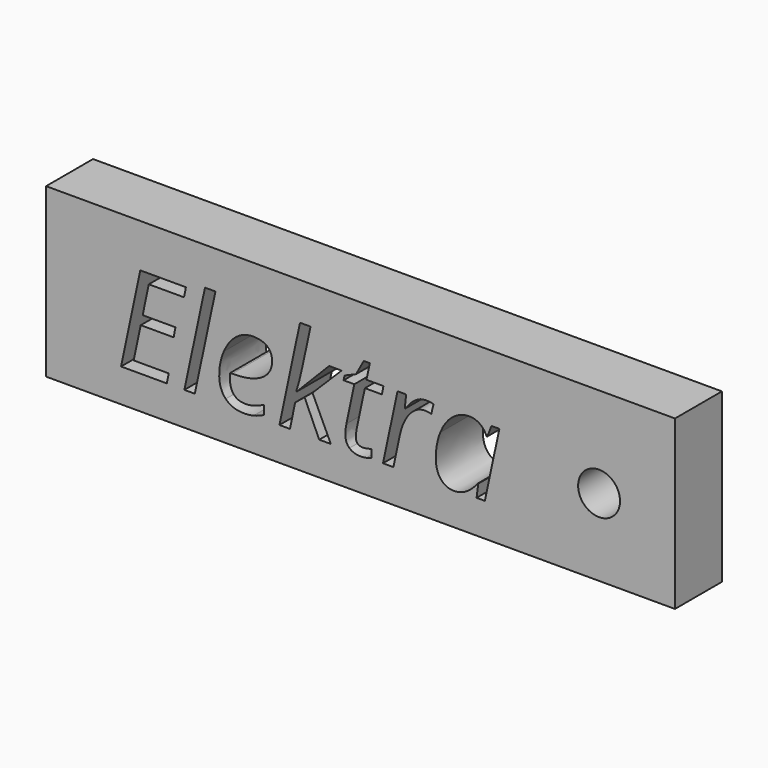
from build123d import *

# Parameters (mm, degrees)
F0_W     = 75
F0_H     = 20
F0_R     = 2.5
F1_DEPTH = 7


with BuildPart() as f1:
    # F0 (on Front) → F1 (new body)
    with BuildSketch(Plane.XZ):
        with Locations((37.5, -10)):
            Rectangle(F0_W, F0_H)
        Polygon((14.6358500468, -14.8998533473), (14.3914699527, -16.0268489271), (8.941556591, -16.0268489271), (11.2311370847, -5.1863377606), (16.6810504464, -5.1863377606), (16.4437882191, -6.3204512072), (12.2489920399, -6.3204512072), (11.520597002, -9.7987154598), (15.4283058861, -9.7987154598), (15.2147698815, -10.9257110396), (11.2904526415, -10.9257110396), (10.4457991123, -14.8998533473), align=None, mode=Mode.SUBTRACT)
        Polygon((20.1972766554, -4.4887868122), (17.7344947357, -16.0268489271), (16.4888680423, -16.0268489271), (18.9516499619, -4.4887868122), align=None, mode=Mode.SUBTRACT)
        with BuildLine():
            add(Edge.make_bspline(
                [(24.7479661755, -16.0458299053), (24.214126164, -16.1763241304), (23.571145528, -16.1763241304)],
                knots=[0, 0, 0, 1, 1, 1], degree=2))
            add(Edge.make_bspline(
                [(23.571145528, -16.1763241304), (22.2068877208, -16.1763241304), (21.4274813041, -15.3672599352)],
                knots=[0, 0, 0, 1, 1, 1], degree=2))
            add(Edge.make_bspline(
                [(21.4274813041, -15.3672599352), (20.6480748873, -14.55819574), (20.6480748873, -13.1275045092)],
                knots=[0, 0, 0, 1, 1, 1], degree=2))
            add(Edge.make_bspline(
                [(20.6480748873, -13.1275045092), (20.6480748873, -11.7347752348), (21.200895877, -10.4547455184)],
                knots=[0, 0, 0, 1, 1, 1], degree=2))
            add(Edge.make_bspline(
                [(21.200895877, -10.4547455184), (21.7537168666, -9.1747158019), (22.6659901307, -8.46292912)],
                knots=[0, 0, 0, 1, 1, 1], degree=2))
            add(Edge.make_bspline(
                [(22.6659901307, -8.46292912), (23.5782633948, -7.751142438), (24.674414885, -7.751142438)],
                knots=[0, 0, 0, 1, 1, 1], degree=2))
            add(Edge.make_bspline(
                [(24.674414885, -7.751142438), (25.8085283317, -7.751142438), (26.3803302995, -8.2446478708)],
                knots=[0, 0, 0, 1, 1, 1], degree=2))
            add(Edge.make_bspline(
                [(26.3803302995, -8.2446478708), (26.9521322674, -8.7381533037), (26.9521322674, -9.6207687893)],
                knots=[0, 0, 0, 1, 1, 1], degree=2))
            add(Edge.make_bspline(
                [(26.9521322674, -9.6207687893), (26.9521322674, -10.9541825069), (25.7207413075, -11.7146079455)],
                knots=[0, 0, 0, 1, 1, 1], degree=2))
            add(Edge.make_bspline(
                [(25.7207413075, -11.7146079455), (24.4893503477, -12.4750333841), (22.1973972317, -12.4750333841)],
                knots=[0, 0, 0, 1, 1, 1], degree=2))
            Line((22.1973972317, -12.4750333841), (21.9530171376, -12.4750333841))
            Line((21.9530171376, -12.4750333841), (21.9245456703, -13.0681889524))
            add(Edge.make_bspline(
                [(21.9245456703, -13.0681889524), (21.9245456703, -14.0385914621), (22.3800891468, -14.584294585)],
                knots=[0, 0, 0, 1, 1, 1], degree=2))
            add(Edge.make_bspline(
                [(22.3800891468, -14.584294585), (22.8356326233, -15.1299977078), (23.7917993994, -15.1299977078)],
                knots=[0, 0, 0, 1, 1, 1], degree=2))
            add(Edge.make_bspline(
                [(23.7917993994, -15.1299977078), (24.2592059872, -15.1299977078), (24.7527114201, -14.9959445494)],
                knots=[0, 0, 0, 1, 1, 1], degree=2))
            add(Edge.make_bspline(
                [(24.7527114201, -14.9959445494), (25.2462168529, -14.861891391), (25.9793571353, -14.50599805)],
                knots=[0, 0, 0, 1, 1, 1], degree=2))
            Line((25.9793571353, -14.50599805), (25.9793571353, -15.5902864289))
            add(Edge.make_bspline(
                [(25.9793571353, -15.5902864289), (25.281806187, -15.9153356803), (24.7479661755, -16.0458299053)],
                knots=[0, 0, 0, 1, 1, 1], degree=2))
        make_face(mode=Mode.SUBTRACT)
        with BuildLine():
            Line((29.8277504626, -11.8818778157), (29.8562219299, -11.8818778157))
            Line((29.8562219299, -11.8818778157), (33.7568129471, -7.9006176412))
            Line((33.7568129471, -7.9006176412), (35.2468197347, -7.9006176412))
            Line((35.2468197347, -7.9006176412), (31.7709281044, -11.3622735379))
            Line((31.7709281044, -11.3622735379), (33.9561132181, -16.0268489271))
            Line((33.9561132181, -16.0268489271), (32.5705018105, -16.0268489271))
            Line((32.5705018105, -16.0268489271), (30.8289970619, -12.1404936435))
            Line((30.8289970619, -12.1404936435), (29.7020014821, -13.0539532187))
            Line((29.7020014821, -13.0539532187), (29.0922375579, -16.0268489271))
            Line((29.0922375579, -16.0268489271), (27.8323751308, -16.0268489271))
            Line((27.8323751308, -16.0268489271), (30.2785486945, -4.4887868122))
            Line((30.2785486945, -4.4887868122), (31.5407837439, -4.4887868122))
            add(Edge.make_bspline(
                [(31.5407837439, -4.4887868122), (31.0069437324, -6.9800401992), (30.5834306566, -8.9528756194)],
                knots=[0, 0, 0, 1, 1, 1], degree=2))
            add(Edge.make_bspline(
                [(30.5834306566, -8.9528756194), (30.1599175808, -10.9257110396), (29.8277504626, -11.8818778157)],
                knots=[0, 0, 0, 1, 1, 1], degree=2))
        make_face(mode=Mode.SUBTRACT)
        with BuildLine():
            add(Edge.make_bspline(
                [(44.4668298886, -7.9184123082), (44.8488220746, -7.751142438), (45.3162286625, -7.751142438)],
                knots=[0, 0, 0, 1, 1, 1], degree=2))
            add(Edge.make_bspline(
                [(45.3162286625, -7.751142438), (45.8287150735, -7.751142438), (46.2059620149, -7.855537818)],
                knots=[0, 0, 0, 1, 1, 1], degree=2))
            Line((46.2059620149, -7.855537818), (45.9402283203, -8.9682976642))
            add(Edge.make_bspline(
                [(45.9402283203, -8.9682976642), (45.546373023, -8.871020151), (45.1596355924, -8.871020151)],
                knots=[0, 0, 0, 1, 1, 1], degree=2))
            add(Edge.make_bspline(
                [(45.1596355924, -8.871020151), (44.4858108668, -8.871020151), (43.8962142319, -9.3158868272)],
                knots=[0, 0, 0, 1, 1, 1], degree=2))
            add(Edge.make_bspline(
                [(43.8962142319, -9.3158868272), (43.306617597, -9.7607535034), (42.8653098542, -10.5508367204)],
                knots=[0, 0, 0, 1, 1, 1], degree=2))
            add(Edge.make_bspline(
                [(42.8653098542, -10.5508367204), (42.4240021113, -11.3409199374), (42.2175839736, -12.3042045804)],
                knots=[0, 0, 0, 1, 1, 1], degree=2))
            Line((42.2175839736, -12.3042045804), (41.422755512, -16.0268489271))
            Line((41.422755512, -16.0268489271), (40.1771288186, -16.0268489271))
            Line((40.1771288186, -16.0268489271), (41.9138883226, -7.9006176412))
            Line((41.9138883226, -7.9006176412), (42.9436063892, -7.9006176412))
            Line((42.9436063892, -7.9006176412), (42.7798954523, -9.4048601625))
            Line((42.7798954523, -9.4048601625), (42.8558193651, -9.4048601625))
            add(Edge.make_bspline(
                [(42.8558193651, -9.4048601625), (43.3896593766, -8.7001913473), (43.7372485396, -8.3929367629)],
                knots=[0, 0, 0, 1, 1, 1], degree=2))
            add(Edge.make_bspline(
                [(43.7372485396, -8.3929367629), (44.0848377026, -8.0856821785), (44.4668298886, -7.9184123082)],
                knots=[0, 0, 0, 1, 1, 1], degree=2))
        make_face(mode=Mode.SUBTRACT)
        with BuildLine():
            add(Edge.make_bspline(
                [(37.1461038645, -14.9366289926), (37.3608261802, -15.1584691751), (37.7451909885, -15.1584691751)],
                knots=[0, 0, 0, 1, 1, 1], degree=2))
            add(Edge.make_bspline(
                [(37.7451909885, -15.1584691751), (38.1532820195, -15.1584691751), (38.8128710114, -14.966286771)],
                knots=[0, 0, 0, 1, 1, 1], degree=2))
            Line((38.8128710114, -14.966286771), (38.8128710114, -15.9224535471))
            add(Edge.make_bspline(
                [(38.8128710114, -15.9224535471), (38.5613730505, -16.0268489271), (38.1912439758, -16.1015865287)],
                knots=[0, 0, 0, 1, 1, 1], degree=2))
            add(Edge.make_bspline(
                [(38.1912439758, -16.1015865287), (37.8211149012, -16.1763241304), (37.5980884075, -16.1763241304)],
                knots=[0, 0, 0, 1, 1, 1], degree=2))
            add(Edge.make_bspline(
                [(37.5980884075, -16.1763241304), (36.6703930987, -16.1763241304), (36.178073977, -15.7350163875)],
                knots=[0, 0, 0, 1, 1, 1], degree=2))
            add(Edge.make_bspline(
                [(36.178073977, -15.7350163875), (35.6857548553, -15.2937086447), (35.6857548553, -14.4182110259)],
                knots=[0, 0, 0, 1, 1, 1], degree=2))
            add(Edge.make_bspline(
                [(35.6857548553, -14.4182110259), (35.6857548553, -13.9294508376), (35.8186217026, -13.3054511797)],
                knots=[0, 0, 0, 1, 1, 1], degree=2))
            Line((35.8186217026, -13.3054511797), (36.7605527451, -8.8425486837))
            Line((36.7605527451, -8.8425486837), (35.484081962, -8.8425486837))
            Line((35.484081962, -8.8425486837), (35.5884773421, -8.3015908054))
            Line((35.5884773421, -8.3015908054), (36.959853016, -7.7226709707))
            Line((36.959853016, -7.7226709707), (37.8875483249, -6.0309912899))
            Line((37.8875483249, -6.0309912899), (38.6135707405, -6.0309912899))
            Line((38.6135707405, -6.0309912899), (38.2054797095, -7.9006176412))
            Line((38.2054797095, -7.9006176412), (40.2364443754, -7.9006176412))
            Line((40.2364443754, -7.9006176412), (40.0442619713, -8.8425486837))
            Line((40.0442619713, -8.8425486837), (38.0204151722, -8.8425486837))
            Line((38.0204151722, -8.8425486837), (37.064248396, -13.3196869133))
            add(Edge.make_bspline(
                [(37.064248396, -13.3196869133), (36.9313815487, -13.9650401717), (36.9313815487, -14.2995799122)],
                knots=[0, 0, 0, 1, 1, 1], degree=2))
            add(Edge.make_bspline(
                [(36.9313815487, -14.2995799122), (36.9313815487, -14.71478881), (37.1461038645, -14.9366289926)],
                knots=[0, 0, 0, 1, 1, 1], degree=2))
        make_face(mode=Mode.SUBTRACT)
        with BuildLine():
            add(Edge.make_bspline(
                [(48.4587668634, -8.5008910763), (49.3852758611, -7.751142438), (50.4909178405, -7.751142438)],
                knots=[0, 0, 0, 1, 1, 1], degree=2))
            add(Edge.make_bspline(
                [(50.4909178405, -7.751142438), (51.1718604329, -7.751142438), (51.7057004444, -8.1188988903)],
                knots=[0, 0, 0, 1, 1, 1], degree=2))
            add(Edge.make_bspline(
                [(51.7057004444, -8.1188988903), (52.2395404559, -8.4866553427), (52.53611824, -9.1747158019)],
                knots=[0, 0, 0, 1, 1, 1], degree=2))
            Line((52.53611824, -9.1747158019), (52.6191600196, -9.1747158019))
            Line((52.6191600196, -9.1747158019), (53.1150380747, -7.9006176412))
            Line((53.1150380747, -7.9006176412), (54.0569691172, -7.9006176412))
            Line((54.0569691172, -7.9006176412), (52.3297001022, -16.0268489271))
            Line((52.3297001022, -16.0268489271), (51.3426892366, -16.0268489271))
            Line((51.3426892366, -16.0268489271), (51.537244263, -14.4775265827))
            Line((51.537244263, -14.4775265827), (51.4779287061, -14.4775265827))
            add(Edge.make_bspline(
                [(51.4779287061, -14.4775265827), (50.1492602331, -16.1763241304), (48.680607046, -16.1763241304)],
                knots=[0, 0, 0, 1, 1, 1], degree=2))
            add(Edge.make_bspline(
                [(48.680607046, -16.1763241304), (47.6508889794, -16.1763241304), (47.0648512779, -15.4419975368)],
                knots=[0, 0, 0, 1, 1, 1], degree=2))
            add(Edge.make_bspline(
                [(47.0648512779, -15.4419975368), (46.4788135764, -14.7076709432), (46.4788135764, -13.4312001602)],
                knots=[0, 0, 0, 1, 1, 1], degree=2))
            add(Edge.make_bspline(
                [(46.4788135764, -13.4312001602), (46.4788135764, -11.8889956826), (47.005535721, -10.5698176986)],
                knots=[0, 0, 0, 1, 1, 1], degree=2))
            add(Edge.make_bspline(
                [(47.005535721, -10.5698176986), (47.5322578657, -9.2506397147), (48.4587668634, -8.5008910763)],
                knots=[0, 0, 0, 1, 1, 1], degree=2))
        make_face(mode=Mode.SUBTRACT)
        with Locations((65.950281918, -10.8088040724)):
            Circle(F0_R, mode=Mode.SUBTRACT)
    extrude(amount=F1_DEPTH)


solid = f1.part
